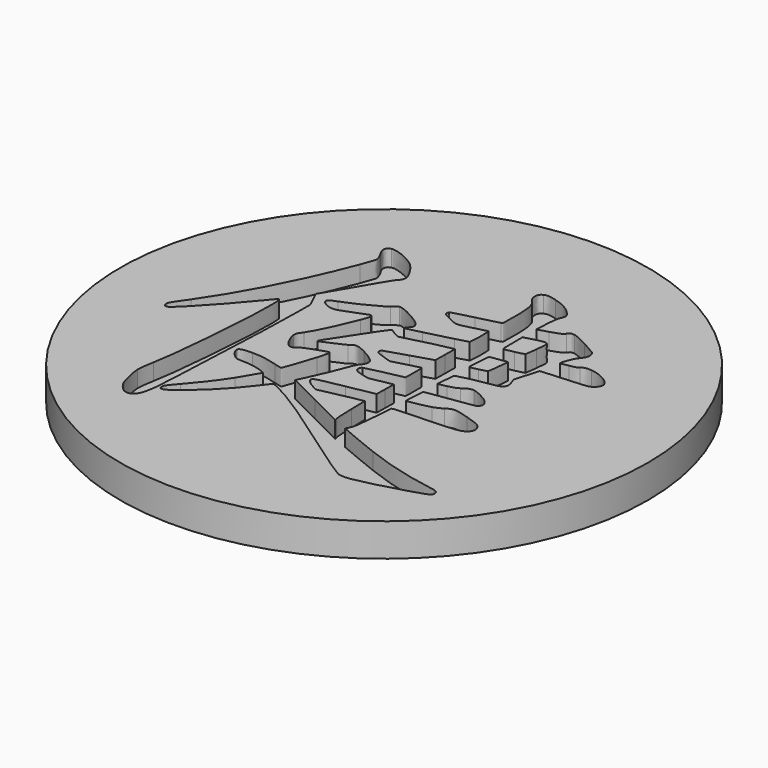
from build123d import *

# Parameters (mm, degrees)
SKETCH001_R  = 20
PAD_DEPTH    = 2.5
POCKET_DEPTH = 1.25


with BuildPart() as part:
    # Sketch001 (on DatumPlane) → Pad (new body)
    with BuildSketch(Plane.XY):
        Circle(SKETCH001_R)
    extrude(amount=-PAD_DEPTH)

    # Sketch → Pocket (cut)
    with BuildSketch(Plane.XY):
        with BuildLine():
            add(Edge.make_bspline(
                [(6.562483, -12.563872), (6.3868, -12.503018), (5.201996, -11.701331), (3.069983, -10.200614)],
                knots=[0, 0, 0, 0, 1, 1, 1, 1], degree=3))
            add(Edge.make_bspline(
                [(3.069983, -10.200614), (-0.155817, -7.929431), (-1.097733, -7.296018), (-2.14125, -6.695414)],
                knots=[0, 0, 0, 0, 1, 1, 1, 1], degree=3))
            add(Edge.make_bspline(
                [(-2.14125, -6.695414), (-2.834987, -6.295893), (-3.565237, -5.927593), (-3.622387, -5.949289)],
                knots=[0, 0, 0, 0, 1, 1, 1, 1], degree=3))
            add(Edge.make_bspline(
                [(-3.622387, -5.949289), (-3.645671, -5.957756), (-3.914487, -6.298539), (-4.219817, -6.705997)],
                knots=[0, 0, 0, 0, 1, 1, 1, 1], degree=3))
            add(Edge.make_bspline(
                [(-4.219817, -6.705997), (-5.087121, -7.865401), (-5.999933, -8.824781), (-7.194792, -9.832843)],
                knots=[0, 0, 0, 0, 1, 1, 1, 1], degree=3))
            add(Edge.make_bspline(
                [(-7.194792, -9.832843), (-8.093317, -10.591139), (-8.506067, -10.767351), (-8.544696, -10.410164)],
                knots=[0, 0, 0, 0, 1, 1, 1, 1], degree=3))
            add(Edge.make_bspline(
                [(-8.544696, -10.410164), (-8.570096, -10.177331), (-8.520883, -10.099014), (-7.902287, -9.394693)],
                knots=[0, 0, 0, 0, 1, 1, 1, 1], degree=3))
            add(Edge.make_bspline(
                [(-7.902287, -9.394693), (-7.176271, -8.568664), (-6.390987, -7.541022), (-5.88775, -6.758914)],
                knots=[0, 0, 0, 0, 1, 1, 1, 1], degree=3))
            add(Edge.make_bspline(
                [(-5.88775, -6.758914), (-5.552787, -6.238214), (-4.99875, -5.290476), (-4.99875, -5.238089)],
                knots=[0, 0, 0, 0, 1, 1, 1, 1], degree=3))
            add(Edge.make_bspline(
                [(-4.99875, -5.238089), (-4.99875, -5.178822), (-5.524212, -4.990968), (-5.909446, -4.911593)],
                knots=[0, 0, 0, 0, 1, 1, 1, 1], degree=3))
            add(Edge.make_bspline(
                [(-5.909446, -4.911593), (-6.133812, -4.865026), (-6.502642, -4.827456), (-6.729654, -4.827456)],
                knots=[0, 0, 0, 0, 1, 1, 1, 1], degree=3))
            add(Edge.make_bspline(
                [(-6.729654, -4.827456), (-6.956137, -4.826926), (-7.226012, -4.803643), (-7.3292, -4.774539)],
                knots=[0, 0, 0, 0, 1, 1, 1, 1], degree=3))
            add(Edge.make_bspline(
                [(-7.3292, -4.774539), (-7.634529, -4.689872), (-8.094375, -4.115197), (-8.058392, -3.862785)],
                knots=[0, 0, 0, 0, 1, 1, 1, 1], degree=3))
            add(Edge.make_bspline(
                [(-8.058392, -3.862785), (-8.035637, -3.701918), (-7.714962, -3.620426), (-7.082608, -3.614606)],
                knots=[0, 0, 0, 0, 1, 1, 1, 1], degree=3))
            add(Edge.make_bspline(
                [(-7.082608, -3.614606), (-6.505287, -3.609314), (-5.856, -3.71356), (-5.110933, -3.931047)],
                knots=[0, 0, 0, 0, 1, 1, 1, 1], degree=3))
            add(Edge.make_bspline(
                [(-5.110933, -3.931047), (-4.809308, -4.018889), (-4.551604, -4.080272), (-4.538904, -4.067572)],
                knots=[0, 0, 0, 0, 1, 1, 1, 1], degree=3))
            add(Edge.make_bspline(
                [(-4.538904, -4.067572), (-4.497629, -4.026297), (-3.9383, -2.385351), (-3.725046, -1.678914)],
                knots=[0, 0, 0, 0, 1, 1, 1, 1], degree=3))
            add(Edge.make_bspline(
                [(-3.725046, -1.678914), (-3.509146, -0.965068), (-3.479512, -0.782506), (-3.571058, -0.725885)],
                knots=[0, 0, 0, 0, 1, 1, 1, 1], degree=3))
            add(Edge.make_bspline(
                [(-3.571058, -0.725885), (-3.600692, -0.707364), (-3.997037, -0.826426), (-4.452121, -0.989939)],
                knots=[0, 0, 0, 0, 1, 1, 1, 1], degree=3))
            add(Edge.make_bspline(
                [(-4.452121, -0.989939), (-5.0686, -1.212189), (-5.31625, -1.327018), (-5.424729, -1.443435)],
                knots=[0, 0, 0, 0, 1, 1, 1, 1], degree=3))
            add(Edge.make_bspline(
                [(-5.424729, -1.443435), (-5.620521, -1.652985), (-5.878225, -1.657218), (-6.084071, -1.454018)],
                knots=[0, 0, 0, 0, 1, 1, 1, 1], degree=3))
            add(Edge.make_bspline(
                [(-6.084071, -1.454018), (-6.3005, -1.240764), (-6.601596, -0.57666), (-6.607946, -0.301493)],
                knots=[0, 0, 0, 0, 1, 1, 1, 1], degree=3))
            add(Edge.make_bspline(
                [(-6.607946, -0.301493), (-6.612179, -0.105172), (-6.572492, -0.015743), (-6.335425, 0.314986)],
                knots=[0, 0, 0, 0, 1, 1, 1, 1], degree=3))
            add(Edge.make_bspline(
                [(-6.335425, 0.314986), (-5.957071, 0.844153), (-5.372871, 2.066528), (-4.728346, 3.681015)],
                knots=[0, 0, 0, 0, 1, 1, 1, 1], degree=3))
            add(Edge.make_bspline(
                [(-4.728346, 3.681015), (-4.521442, 4.199069), (-4.479637, 4.353057), (-4.523558, 4.435078)],
                knots=[0, 0, 0, 0, 1, 1, 1, 1], degree=3))
            add(Edge.make_bspline(
                [(-4.523558, 4.435078), (-4.55425, 4.492228), (-4.597112, 4.538794), (-4.619337, 4.538794)],
                knots=[0, 0, 0, 0, 1, 1, 1, 1], degree=3))
            add(Edge.make_bspline(
                [(-4.619337, 4.538794), (-4.641562, 4.538794), (-5.075479, 4.371049), (-5.583479, 4.165732)],
                knots=[0, 0, 0, 0, 1, 1, 1, 1], degree=3))
            add(Edge.make_bspline(
                [(-5.583479, 4.165732), (-6.091479, 3.960415), (-6.617471, 3.778911), (-6.752937, 3.761978)],
                knots=[0, 0, 0, 0, 1, 1, 1, 1], degree=3))
            add(Edge.make_bspline(
                [(-6.752937, 3.761978), (-7.218604, 3.704299), (-7.879004, 4.038732), (-7.846196, 4.315486)],
                knots=[0, 0, 0, 0, 1, 1, 1, 1], degree=3))
            add(Edge.make_bspline(
                [(-7.846196, 4.315486), (-7.831379, 4.438782), (-7.766292, 4.476882), (-7.22125, 4.681669)],
                knots=[0, 0, 0, 0, 1, 1, 1, 1], degree=3))
            add(Edge.make_bspline(
                [(-7.22125, 4.681669), (-6.206308, 5.062669), (-4.740517, 5.808794), (-4.398146, 6.119415)],
                knots=[0, 0, 0, 0, 1, 1, 1, 1], degree=3))
            add(Edge.make_bspline(
                [(-4.398146, 6.119415), (-4.234633, 6.267582), (-4.045192, 6.402519), (-3.977987, 6.419453)],
                knots=[0, 0, 0, 0, 1, 1, 1, 1], degree=3))
            add(Edge.make_bspline(
                [(-3.977987, 6.419453), (-3.657842, 6.499357), (-1.983558, 5.587074), (-1.800467, 5.232532)],
                knots=[0, 0, 0, 0, 1, 1, 1, 1], degree=3))
            add(Edge.make_bspline(
                [(-1.800467, 5.232532), (-1.682992, 5.005519), (-1.694633, 4.946782), (-1.908417, 4.691194)],
                knots=[0, 0, 0, 0, 1, 1, 1, 1], degree=3))
            add(Edge.make_bspline(
                [(-1.908417, 4.691194), (-2.013192, 4.565782), (-2.078279, 4.456244), (-2.052879, 4.447778)],
                knots=[0, 0, 0, 0, 1, 1, 1, 1], degree=3))
            add(Edge.make_bspline(
                [(-2.052879, 4.447778), (-2.027479, 4.439311), (-1.495137, 4.563665), (-0.870192, 4.724003)],
                knots=[0, 0, 0, 0, 1, 1, 1, 1], degree=3))
            add(Edge.make_bspline(
                [(-0.870192, 4.724003), (-0.244717, 4.884869), (0.6591, 5.114528), (1.139583, 5.235178)],
                knots=[0, 0, 0, 0, 1, 1, 1, 1], degree=3))
            add(Edge.make_bspline(
                [(1.139583, 5.235178), (1.620067, 5.355299), (2.042342, 5.477007), (2.078854, 5.505582)],
                knots=[0, 0, 0, 0, 1, 1, 1, 1], degree=3))
            add(Edge.make_bspline(
                [(2.078854, 5.505582), (2.152408, 5.562732), (2.177279, 7.212674), (2.105313, 7.253419)],
                knots=[0, 0, 0, 0, 1, 1, 1, 1], degree=3))
            add(Edge.make_bspline(
                [(2.105313, 7.253419), (2.083617, 7.266119), (1.648642, 7.159757), (1.139583, 7.017411)],
                knots=[0, 0, 0, 0, 1, 1, 1, 1], degree=3))
            add(Edge.make_bspline(
                [(1.139583, 7.017411), (0.058496, 6.715786), (0.055321, 6.715786), (-0.765417, 7.121128)],
                knots=[0, 0, 0, 0, 1, 1, 1, 1], degree=3))
            add(Edge.make_bspline(
                [(-0.765417, 7.121128), (-1.188221, 7.330678), (-1.270771, 7.391532), (-1.284, 7.506361)],
                knots=[0, 0, 0, 0, 1, 1, 1, 1], degree=3))
            add(Edge.make_bspline(
                [(-1.284, 7.506361), (-1.292996, 7.582032), (-1.266537, 7.670932), (-1.226321, 7.704799)],
                knots=[0, 0, 0, 0, 1, 1, 1, 1], degree=3))
            add(Edge.make_bspline(
                [(-1.226321, 7.704799), (-1.185575, 7.738136), (-0.464321, 7.932869), (0.377054, 8.137128)],
                knots=[0, 0, 0, 0, 1, 1, 1, 1], degree=3))
            add(Edge.make_bspline(
                [(0.377054, 8.137128), (1.218429, 8.340857), (1.960321, 8.531357), (2.025938, 8.559403)],
                knots=[0, 0, 0, 0, 1, 1, 1, 1], degree=3))
            add(Edge.make_bspline(
                [(2.025938, 8.559403), (2.142883, 8.610203), (2.145, 8.626607), (2.145, 9.561115)],
                knots=[0, 0, 0, 0, 1, 1, 1, 1], degree=3))
            add(Edge.make_bspline(
                [(2.145, 9.561115), (2.145, 10.988278), (2.047104, 11.52644), (1.725371, 11.867753)],
                knots=[0, 0, 0, 0, 1, 1, 1, 1], degree=3))
            add(Edge.make_bspline(
                [(1.725371, 11.867753), (1.521113, 12.084182), (1.457083, 12.223353), (1.457083, 12.449783)],
                knots=[0, 0, 0, 0, 1, 1, 1, 1], degree=3))
            add(Edge.make_bspline(
                [(1.457083, 12.449783), (1.457083, 12.697222), (1.528521, 12.826179), (1.720608, 12.925504)],
                knots=[0, 0, 0, 0, 1, 1, 1, 1], degree=3))
            add(Edge.make_bspline(
                [(1.720608, 12.925504), (1.939154, 13.038428), (2.169871, 13.025411), (2.708033, 12.86973)],
                knots=[0, 0, 0, 0, 1, 1, 1, 1], degree=3))
            add(Edge.make_bspline(
                [(2.708033, 12.86973), (3.362613, 12.680288), (3.7579, 12.470315), (4.142604, 12.107994)],
                knots=[0, 0, 0, 0, 1, 1, 1, 1], degree=3))
            add(Edge.make_bspline(
                [(4.142604, 12.107994), (4.516725, 11.75504), (4.551121, 11.621161), (4.370675, 11.223757)],
                knots=[0, 0, 0, 0, 1, 1, 1, 1], degree=3))
            add(Edge.make_bspline(
                [(4.370675, 11.223757), (4.296592, 11.060774), (4.254788, 10.773436), (4.210338, 10.119915)],
                knots=[0, 0, 0, 0, 1, 1, 1, 1], degree=3))
            add(Edge.make_bspline(
                [(4.210338, 10.119915), (4.177, 9.63414), (4.158479, 9.228269), (4.168533, 9.218215)],
                knots=[0, 0, 0, 0, 1, 1, 1, 1], degree=3))
            add(Edge.make_bspline(
                [(4.168533, 9.218215), (4.179117, 9.207632), (4.531542, 9.307644), (4.952229, 9.440465)],
                knots=[0, 0, 0, 0, 1, 1, 1, 1], degree=3))
            add(Edge.make_bspline(
                [(4.952229, 9.440465), (5.652317, 9.661128), (5.73275, 9.699228), (5.9042, 9.896078)],
                knots=[0, 0, 0, 0, 1, 1, 1, 1], degree=3))
            add(Edge.make_bspline(
                [(5.9042, 9.896078), (6.086233, 10.10404), (6.099992, 10.109861), (6.353992, 10.081286)],
                knots=[0, 0, 0, 0, 1, 1, 1, 1], degree=3))
            add(Edge.make_bspline(
                [(6.353992, 10.081286), (6.549254, 10.05959), (6.858288, 9.923594), (7.56155, 9.550532)],
                knots=[0, 0, 0, 0, 1, 1, 1, 1], degree=3))
            add(Edge.make_bspline(
                [(7.56155, 9.550532), (8.081192, 9.274836), (8.553208, 9.001786), (8.610358, 8.944636)],
                knots=[0, 0, 0, 0, 1, 1, 1, 1], degree=3))
            add(Edge.make_bspline(
                [(8.610358, 8.944636), (8.668038, 8.887486), (8.727304, 8.745669), (8.743179, 8.629782)],
                knots=[0, 0, 0, 0, 1, 1, 1, 1], degree=3))
            add(Edge.make_bspline(
                [(8.743179, 8.629782), (8.775458, 8.386894), (8.682854, 8.172053), (8.406629, 7.848203)],
                knots=[0, 0, 0, 0, 1, 1, 1, 1], degree=3))
            add(Edge.make_bspline(
                [(8.406629, 7.848203), (8.18385, 7.587324), (7.841479, 6.572382), (8.011871, 6.677686)],
                knots=[0, 0, 0, 0, 1, 1, 1, 1], degree=3))
            add(Edge.make_bspline(
                [(8.011871, 6.677686), (8.036742, 6.693032), (8.291271, 6.743303), (8.576492, 6.78934)],
                knots=[0, 0, 0, 0, 1, 1, 1, 1], degree=3))
            add(Edge.make_bspline(
                [(8.576492, 6.78934), (8.969663, 6.85284), (9.132117, 6.904169), (9.249063, 7.002065)],
                knots=[0, 0, 0, 0, 1, 1, 1, 1], degree=3))
            add(Edge.make_bspline(
                [(9.249063, 7.002065), (9.448558, 7.17034), (9.603075, 7.205794), (9.968729, 7.166636)],
                knots=[0, 0, 0, 0, 1, 1, 1, 1], degree=3))
            add(Edge.make_bspline(
                [(9.968729, 7.166636), (10.830742, 7.07509), (11.722917, 6.526874), (11.722917, 6.089253)],
                knots=[0, 0, 0, 0, 1, 1, 1, 1], degree=3))
            add(Edge.make_bspline(
                [(11.722917, 6.089253), (11.722917, 5.877057), (11.575808, 5.661157), (11.338742, 5.52569)],
                knots=[0, 0, 0, 0, 1, 1, 1, 1], degree=3))
            add(Edge.make_bspline(
                [(11.338742, 5.52569), (11.13025, 5.406099), (11.01595, 5.390753), (9.712083, 5.311378)],
                knots=[0, 0, 0, 0, 1, 1, 1, 1], degree=3))
            add(Edge.make_bspline(
                [(9.712083, 5.311378), (8.940558, 5.263753), (8.163742, 5.211365), (7.985413, 5.193903)],
                knots=[0, 0, 0, 0, 1, 1, 1, 1], degree=3))
            add(Edge.make_bspline(
                [(7.985413, 5.193903), (7.660504, 5.162682)],
                knots=[0, 0, 6.168282, 6.168282], degree=1))
            add(Edge.make_bspline(
                [(7.660504, 5.162682), (7.393275, 4.260453)],
                knots=[0, 0, 17.782154, 17.782154], degree=1))
            add(Edge.make_bspline(
                [(7.393275, 4.260453), (7.126046, 3.358224)],
                knots=[0, 0, 17.782154, 17.782154], degree=1))
            add(Edge.make_bspline(
                [(7.126046, 3.358224), (7.247225, 3.035432)],
                knots=[0, 0, 6.515681, 6.515681], degree=1))
            add(Edge.make_bspline(
                [(7.247225, 3.035432), (7.489583, 2.390378), (7.314429, 2.164953), (6.480992, 2.051711)],
                knots=[0, 0, 0, 0, 1, 1, 1, 1], degree=3))
            add(Edge.make_bspline(
                [(6.480992, 2.051711), (5.581408, 1.928944), (4.183879, 1.621499), (4.083867, 1.523603)],
                knots=[0, 0, 0, 0, 1, 1, 1, 1], degree=3))
            add(Edge.make_bspline(
                [(4.083867, 1.523603), (4.035713, 1.476507), (3.922471, 0.150944), (3.962688, 0.110199)],
                knots=[0, 0, 0, 0, 1, 1, 1, 1], degree=3))
            add(Edge.make_bspline(
                [(3.962688, 0.110199), (3.975917, 0.097499), (4.256904, 0.150944), (4.587104, 0.22979)],
                knots=[0, 0, 0, 0, 1, 1, 1, 1], degree=3))
            add(Edge.make_bspline(
                [(4.587104, 0.22979), (5.010438, 0.330332), (5.242213, 0.414999), (5.372917, 0.517128)],
                knots=[0, 0, 0, 0, 1, 1, 1, 1], degree=3))
            add(Edge.make_bspline(
                [(5.372917, 0.517128), (5.693063, 0.766365), (5.899967, 0.848386), (6.141267, 0.821399)],
                knots=[0, 0, 0, 0, 1, 1, 1, 1], degree=3))
            add(Edge.make_bspline(
                [(6.141267, 0.821399), (6.415904, 0.790178), (7.057783, 0.482732), (7.410208, 0.212857)],
                knots=[0, 0, 0, 0, 1, 1, 1, 1], degree=3))
            add(Edge.make_bspline(
                [(7.410208, 0.212857), (7.863704, -0.133747), (7.857354, -0.569251), (7.396979, -0.698368)],
                knots=[0, 0, 0, 0, 1, 1, 1, 1], degree=3))
            add(Edge.make_bspline(
                [(7.396979, -0.698368), (7.287971, -0.72906), (6.473054, -0.850239), (5.586171, -0.967714)],
                knots=[0, 0, 0, 0, 1, 1, 1, 1], degree=3))
            add(Edge.make_bspline(
                [(5.586171, -0.967714), (4.699288, -1.085189), (3.958454, -1.205839), (3.939933, -1.236001)],
                knots=[0, 0, 0, 0, 1, 1, 1, 1], degree=3))
            add(Edge.make_bspline(
                [(3.939933, -1.236001), (3.897071, -1.305322), (3.822458, -2.712376), (3.8595, -2.749947)],
                knots=[0, 0, 0, 0, 1, 1, 1, 1], degree=3))
            add(Edge.make_bspline(
                [(3.8595, -2.749947), (3.907654, -2.798101), (5.16125, -2.554685), (5.579292, -2.416043)],
                knots=[0, 0, 0, 0, 1, 1, 1, 1], degree=3))
            add(Edge.make_bspline(
                [(5.579292, -2.416043), (5.800483, -2.342489), (6.108458, -2.196439), (6.263504, -2.090606)],
                knots=[0, 0, 0, 0, 1, 1, 1, 1], degree=3))
            add(Edge.make_bspline(
                [(6.263504, -2.090606), (6.699538, -1.793743), (6.90115, -1.797447), (7.992292, -2.12606)],
                knots=[0, 0, 0, 0, 1, 1, 1, 1], degree=3))
            add(Edge.make_bspline(
                [(7.992292, -2.12606), (8.942675, -2.412339), (9.084492, -2.482718), (9.275521, -2.763176)],
                knots=[0, 0, 0, 0, 1, 1, 1, 1], degree=3))
            add(Edge.make_bspline(
                [(9.275521, -2.763176), (9.545396, -3.159522), (9.322617, -3.577035), (8.755879, -3.735256)],
                knots=[0, 0, 0, 0, 1, 1, 1, 1], degree=3))
            add(Edge.make_bspline(
                [(8.755879, -3.735256), (8.427267, -3.826801), (7.166792, -3.909351), (5.399375, -3.955389)],
                knots=[0, 0, 0, 0, 1, 1, 1, 1], degree=3))
            add(Edge.make_bspline(
                [(5.399375, -3.955389), (4.729979, -3.972851), (4.098683, -4.004072), (3.997083, -4.025768)],
                knots=[0, 0, 0, 0, 1, 1, 1, 1], degree=3))
            add(Edge.make_bspline(
                [(3.997083, -4.025768), (3.811875, -4.064397)],
                knots=[0, 0, 3.575318, 3.575318], degree=1))
            add(Edge.make_bspline(
                [(3.811875, -4.064397), (3.697046, -5.48521)],
                knots=[0, 0, 26.937546, 26.937546], degree=1))
            add(Edge.make_bspline(
                [(3.697046, -5.48521), (3.576925, -6.977989), (3.527183, -7.280672), (3.356263, -7.572772)],
                knots=[0, 0, 0, 0, 1, 1, 1, 1], degree=3))
            add(Edge.make_bspline(
                [(3.356263, -7.572772), (3.299113, -7.670668), (3.258896, -7.757981), (3.267363, -7.766976)],
                knots=[0, 0, 0, 0, 1, 1, 1, 1], degree=3))
            add(Edge.make_bspline(
                [(3.267363, -7.766976), (3.300171, -7.799785), (5.650729, -8.767101), (6.404792, -9.058672)],
                knots=[0, 0, 0, 0, 1, 1, 1, 1], degree=3))
            add(Edge.make_bspline(
                [(6.404792, -9.058672), (8.333604, -9.802681), (9.985663, -10.242947), (12.265842, -10.620243)],
                knots=[0, 0, 0, 0, 1, 1, 1, 1], degree=3))
            add(Edge.make_bspline(
                [(12.265842, -10.620243), (12.620913, -10.678981), (12.734154, -11.067389), (12.449463, -11.253656)],
                knots=[0, 0, 0, 0, 1, 1, 1, 1], degree=3))
            add(Edge.make_bspline(
                [(12.449463, -11.253656), (12.256846, -11.379597), (10.354492, -11.955331), (9.0284, -12.288176)],
                knots=[0, 0, 0, 0, 1, 1, 1, 1], degree=3))
            add(Edge.make_bspline(
                [(9.0284, -12.288176), (7.484821, -12.676585), (7.033442, -12.726856), (6.562483, -12.563872)],
                knots=[0, 0, 0, 0, 1, 1, 1, 1], degree=3))
        make_face()
        with BuildLine():
            add(Edge.make_bspline(
                [(2.084675, -7.099168), (2.051338, -6.997039), (2.014296, -6.346164), (2.000008, -5.605331)],
                knots=[0, 0, 0, 0, 1, 1, 1, 1], degree=3))
            add(Edge.make_bspline(
                [(2.000008, -5.605331), (1.974079, -4.292468)],
                knots=[0, 0, 24.814838, 24.814838], degree=1))
            add(Edge.make_bspline(
                [(1.974079, -4.292468), (1.834908, -4.321572)],
                knots=[0, 0, 2.686894, 2.686894], degree=1))
            add(Edge.make_bspline(
                [(1.834908, -4.321572), (1.758179, -4.337447), (1.433271, -4.398831), (1.113125, -4.458097)],
                knots=[0, 0, 0, 0, 1, 1, 1, 1], degree=3))
            add(Edge.make_bspline(
                [(1.113125, -4.458097), (0.792979, -4.517364), (0.140517, -4.65336), (-0.336262, -4.759722)],
                knots=[0, 0, 0, 0, 1, 1, 1, 1], degree=3))
            add(Edge.make_bspline(
                [(-0.336262, -4.759722), (-1.203567, -4.953397)],
                knots=[0, 0, 16.79368, 16.79368], degree=1))
            add(Edge.make_bspline(
                [(-1.203567, -4.953397), (-1.529004, -4.784593)],
                knots=[0, 0, 6.928102, 6.928102], degree=1))
            add(Edge.make_bspline(
                [(-1.529004, -4.784593), (-1.909475, -4.587214), (-2.173529, -4.369197), (-2.216921, -4.216268)],
                knots=[0, 0, 0, 0, 1, 1, 1, 1], degree=3))
            add(Edge.make_bspline(
                [(-2.216921, -4.216268), (-2.2873, -3.967031), (-2.211629, -3.942689), (-0.076971, -3.539993)],
                knots=[0, 0, 0, 0, 1, 1, 1, 1], degree=3))
            add(Edge.make_bspline(
                [(-0.076971, -3.539993), (1.959792, -3.155289)],
                knots=[0, 0, 39.170563, 39.170563], degree=1))
            add(Edge.make_bspline(
                [(1.959792, -3.155289), (1.974608, -2.359951)],
                knots=[0, 0, 15.032608, 15.032608], degree=1))
            add(Edge.make_bspline(
                [(1.974608, -2.359951), (1.988896, -1.564614)],
                knots=[0, 0, 15.032425, 15.032425], degree=1))
            add(Edge.make_bspline(
                [(1.988896, -1.564614), (1.140113, -1.724422)],
                knots=[0, 0, 16.321826, 16.321826], degree=1))
            add(Edge.make_bspline(
                [(1.140113, -1.724422), (0.291329, -1.88476)],
                knots=[0, 0, 16.323679, 16.323679], degree=1))
            add(Edge.make_bspline(
                [(0.291329, -1.88476), (-0.2045, -1.765168)],
                knots=[0, 0, 9.638698, 9.638698], degree=1))
            add(Edge.make_bspline(
                [(-0.2045, -1.765168), (-0.744779, -1.634993), (-0.924167, -1.510639), (-0.924167, -1.266693)],
                knots=[0, 0, 0, 0, 1, 1, 1, 1], degree=3))
            add(Edge.make_bspline(
                [(-0.924167, -1.266693), (-0.924167, -1.178322), (-0.879717, -1.097889), (-0.805104, -1.050264)],
                knots=[0, 0, 0, 0, 1, 1, 1, 1], degree=3))
            add(Edge.make_bspline(
                [(-0.805104, -1.050264), (-0.714617, -0.993114), (1.786754, -0.435372), (1.952913, -0.435372)],
                knots=[0, 0, 0, 0, 1, 1, 1, 1], degree=3))
            add(Edge.make_bspline(
                [(1.952913, -0.435372), (1.971433, -0.435372), (1.98625, -0.076597), (1.98625, 0.362082)],
                knots=[0, 0, 0, 0, 1, 1, 1, 1], degree=3))
            add(Edge.make_bspline(
                [(1.98625, 0.362082), (1.98625, 1.096565), (1.978842, 1.15689), (1.893646, 1.132019)],
                knots=[0, 0, 0, 0, 1, 1, 1, 1], degree=3))
            add(Edge.make_bspline(
                [(1.893646, 1.132019), (1.842846, 1.116674), (1.5989, 1.054232), (1.35125, 0.993378)],
                knots=[0, 0, 0, 0, 1, 1, 1, 1], degree=3))
            add(Edge.make_bspline(
                [(1.35125, 0.993378), (1.1036, 0.932524), (0.683442, 0.821399), (0.416742, 0.746786)],
                knots=[0, 0, 0, 0, 1, 1, 1, 1], degree=3))
            add(Edge.make_bspline(
                [(0.416742, 0.746786), (-0.067975, 0.611319)],
                knots=[0, 0, 9.511004, 9.511004], degree=1))
            add(Edge.make_bspline(
                [(-0.067975, 0.611319), (-0.588675, 0.781711)],
                knots=[0, 0, 10.353454, 10.353454], degree=1))
            add(Edge.make_bspline(
                [(-0.588675, 0.781711), (-0.874954, 0.875903), (-1.162821, 0.985969), (-1.228438, 1.027244)],
                knots=[0, 0, 0, 0, 1, 1, 1, 1], degree=3))
            add(Edge.make_bspline(
                [(-1.228438, 1.027244), (-1.371313, 1.116144), (-1.387187, 1.335749), (-1.254896, 1.391311)],
                knots=[0, 0, 0, 0, 1, 1, 1, 1], degree=3))
            add(Edge.make_bspline(
                [(-1.254896, 1.391311), (-1.204096, 1.412478), (-0.459558, 1.648486), (0.39875, 1.916244)],
                knots=[0, 0, 0, 0, 1, 1, 1, 1], degree=3))
            add(Edge.make_bspline(
                [(0.39875, 1.916244), (1.959792, 2.402549)],
                knots=[0, 0, 30.898319, 30.898319], degree=1))
            add(Edge.make_bspline(
                [(1.959792, 2.402549), (1.974079, 3.318007)],
                knots=[0, 0, 17.302107, 17.302107], degree=1))
            add(Edge.make_bspline(
                [(1.974079, 3.318007), (1.988896, 4.233465)],
                knots=[0, 0, 17.302266, 17.302266], degree=1))
            add(Edge.make_bspline(
                [(1.988896, 4.233465), (1.788871, 4.198011)],
                knots=[0, 0, 3.838919, 3.838919], degree=1))
            add(Edge.make_bspline(
                [(1.788871, 4.198011), (1.233775, 4.099057), (-0.135179, 3.775207), (-0.791875, 3.587882)],
                knots=[0, 0, 0, 0, 1, 1, 1, 1], degree=3))
            add(Edge.make_bspline(
                [(-0.791875, 3.587882), (-1.199333, 3.470936), (-1.577688, 3.375686), (-1.632721, 3.375157)],
                knots=[0, 0, 0, 0, 1, 1, 1, 1], degree=3))
            add(Edge.make_bspline(
                [(-1.632721, 3.375157), (-1.719504, 3.374628), (-1.979325, 3.514328), (-2.391017, 3.784203)],
                knots=[0, 0, 0, 0, 1, 1, 1, 1], degree=3))
            add(Edge.make_bspline(
                [(-2.391017, 3.784203), (-2.506375, 3.859874), (-2.530717, 3.827594), (-3.655196, 2.123149)],
                knots=[0, 0, 0, 0, 1, 1, 1, 1], degree=3))
            add(Edge.make_bspline(
                [(-3.655196, 2.123149), (-5.08765, -0.048551), (-5.058546, -0.001456), (-5.006687, -0.033735)],
                knots=[0, 0, 0, 0, 1, 1, 1, 1], degree=3))
            add(Edge.make_bspline(
                [(-5.006687, -0.033735), (-4.945304, -0.071835), (-3.426067, 0.591211), (-3.288483, 0.716624)],
                knots=[0, 0, 0, 0, 1, 1, 1, 1], degree=3))
            add(Edge.make_bspline(
                [(-3.288483, 0.716624), (-2.95405, 1.020894), (-2.775192, 1.009782), (-2.034358, 0.639894)],
                knots=[0, 0, 0, 0, 1, 1, 1, 1], degree=3))
            add(Edge.make_bspline(
                [(-2.034358, 0.639894), (-1.392479, 0.31869), (-0.924167, -0.06231), (-0.924167, -0.263393)],
                knots=[0, 0, 0, 0, 1, 1, 1, 1], degree=3))
            add(Edge.make_bspline(
                [(-0.924167, -0.263393), (-0.924167, -0.441193), (-1.024179, -0.660268), (-1.183988, -0.832247)],
                knots=[0, 0, 0, 0, 1, 1, 1, 1], degree=3))
            add(Edge.make_bspline(
                [(-1.183988, -0.832247), (-1.269713, -0.924322), (-1.405179, -1.201606), (-1.507308, -1.493706)],
                knots=[0, 0, 0, 0, 1, 1, 1, 1], degree=3))
            add(Edge.make_bspline(
                [(-1.507308, -1.493706), (-1.745433, -2.173156), (-2.187817, -3.224081), (-2.5921, -4.072335)],
                knots=[0, 0, 0, 0, 1, 1, 1, 1], degree=3))
            add(Edge.make_bspline(
                [(-2.5921, -4.072335), (-2.926533, -4.772422)],
                knots=[0, 0, 14.662036, 14.662036], degree=1))
            add(Edge.make_bspline(
                [(-2.926533, -4.772422), (-0.403996, -6.035014)],
                knots=[0, 0, 53.307865, 53.307865], degree=1))
            add(Edge.make_bspline(
                [(-0.403996, -6.035014), (0.983479, -6.729281), (2.123833, -7.293901), (2.130712, -7.289139)],
                knots=[0, 0, 0, 0, 1, 1, 1, 1], degree=3))
            add(Edge.make_bspline(
                [(2.130712, -7.289139), (2.137592, -7.284906), (2.116954, -7.199181), (2.084675, -7.099168)],
                knots=[0, 0, 0, 0, 1, 1, 1, 1], degree=3))
        make_face(mode=Mode.SUBTRACT)
        with BuildLine():
            add(Edge.make_bspline(
                [(4.702463, 3.078294), (4.988213, 3.146557), (5.2438, 3.224344), (5.269729, 3.250274)],
                knots=[0, 0, 0, 0, 1, 1, 1, 1], degree=3))
            add(Edge.make_bspline(
                [(5.269729, 3.250274), (5.326879, 3.307424), (5.511558, 4.840949), (5.466579, 4.885928)],
                knots=[0, 0, 0, 0, 1, 1, 1, 1], degree=3))
            add(Edge.make_bspline(
                [(5.466579, 4.885928), (5.436417, 4.91609), (4.270663, 4.762103), (4.199754, 4.718711)],
                knots=[0, 0, 0, 0, 1, 1, 1, 1], degree=3))
            add(Edge.make_bspline(
                [(4.199754, 4.718711), (4.165358, 4.697015), (4.137313, 4.410207), (4.073813, 3.440774)],
                knots=[0, 0, 0, 0, 1, 1, 1, 1], degree=3))
            add(Edge.make_bspline(
                [(4.073813, 3.440774), (4.048942, 3.053424), (4.056879, 2.951824), (4.111913, 2.952882)],
                knots=[0, 0, 0, 0, 1, 1, 1, 1], degree=3))
            add(Edge.make_bspline(
                [(4.111913, 2.952882), (4.150542, 2.953411), (4.416183, 3.010032), (4.702463, 3.078294)],
                knots=[0, 0, 0, 0, 1, 1, 1, 1], degree=3))
        make_face(mode=Mode.SUBTRACT)
        with BuildLine():
            add(Edge.make_bspline(
                [(4.952758, 6.153282), (5.312063, 6.226307), (5.620567, 6.310444), (5.639088, 6.340607)],
                knots=[0, 0, 0, 0, 1, 1, 1, 1], degree=3))
            add(Edge.make_bspline(
                [(5.639088, 6.340607), (5.657608, 6.37024), (5.716346, 6.773465), (5.769792, 7.236486)],
                knots=[0, 0, 0, 0, 1, 1, 1, 1], degree=3))
            add(Edge.make_bspline(
                [(5.769792, 7.236486), (5.879858, 8.190044), (5.867688, 8.242961), (5.537488, 8.242961)],
                knots=[0, 0, 0, 0, 1, 1, 1, 1], degree=3))
            add(Edge.make_bspline(
                [(5.537488, 8.242961), (5.431125, 8.242961), (5.178183, 8.197453), (4.974983, 8.14189)],
                knots=[0, 0, 0, 0, 1, 1, 1, 1], degree=3))
            add(Edge.make_bspline(
                [(4.974983, 8.14189), (4.771783, 8.085799), (4.504554, 8.013303), (4.380729, 7.981024)],
                knots=[0, 0, 0, 0, 1, 1, 1, 1], degree=3))
            add(Edge.make_bspline(
                [(4.380729, 7.981024), (4.155833, 7.921228)],
                knots=[0, 0, 4.397658, 4.397658], degree=1))
            add(Edge.make_bspline(
                [(4.155833, 7.921228), (4.155833, 6.970844)],
                knots=[0, 0, 17.96, 17.96], degree=1))
            add(Edge.make_bspline(
                [(4.155833, 6.970844), (4.155833, 6.204082), (4.169592, 6.020461), (4.2278, 6.020461)],
                knots=[0, 0, 0, 0, 1, 1, 1, 1], degree=3))
            add(Edge.make_bspline(
                [(4.2278, 6.020461), (4.267488, 6.020461), (4.593983, 6.080257), (4.952758, 6.153282)],
                knots=[0, 0, 0, 0, 1, 1, 1, 1], degree=3))
        make_face(mode=Mode.SUBTRACT)
        with BuildLine():
            add(Edge.make_bspline(
                [(-10.005725, -12.134718), (-10.256021, -11.982318), (-10.569817, -11.576447), (-10.676708, -11.267943)],
                knots=[0, 0, 0, 0, 1, 1, 1, 1], degree=3))
            add(Edge.make_bspline(
                [(-10.676708, -11.267943), (-10.859271, -10.740364), (-11.036013, -9.907456), (-11.046067, -9.524868)],
                knots=[0, 0, 0, 0, 1, 1, 1, 1], degree=3))
            add(Edge.make_bspline(
                [(-11.046067, -9.524868), (-11.052946, -9.273514), (-10.997383, -8.829014), (-10.885729, -8.240581)],
                knots=[0, 0, 0, 0, 1, 1, 1, 1], degree=3))
            add(Edge.make_bspline(
                [(-10.885729, -8.240581), (-10.403129, -5.696347), (-9.837979, 2.246444), (-10.107325, 2.69994)],
                knots=[0, 0, 0, 0, 1, 1, 1, 1], degree=3))
            add(Edge.make_bspline(
                [(-10.107325, 2.69994), (-10.154421, 2.779315), (-10.246496, 2.688299), (-10.748675, 2.06494)],
                knots=[0, 0, 0, 0, 1, 1, 1, 1], degree=3))
            add(Edge.make_bspline(
                [(-10.748675, 2.06494), (-12.016029, 0.491728), (-14.349125, -2.022872), (-14.633287, -2.121826)],
                knots=[0, 0, 0, 0, 1, 1, 1, 1], degree=3))
            add(Edge.make_bspline(
                [(-14.633287, -2.121826), (-14.868237, -2.203847), (-15, -2.121826), (-15, -1.894285)],
                knots=[0, 0, 0, 0, 1, 1, 1, 1], degree=3))
            add(Edge.make_bspline(
                [(-15, -1.894285), (-15, -1.706431), (-14.99365, -1.695847), (-14.194608, -0.554964)],
                knots=[0, 0, 0, 0, 1, 1, 1, 1], degree=3))
            add(Edge.make_bspline(
                [(-14.194608, -0.554964), (-12.391208, 2.02049), (-10.541771, 5.617236), (-9.180754, 9.194932)],
                knots=[0, 0, 0, 0, 1, 1, 1, 1], degree=3))
            add(Edge.make_bspline(
                [(-9.180754, 9.194932), (-8.975967, 9.732565), (-8.80875, 10.224161), (-8.80875, 10.286074)],
                knots=[0, 0, 0, 0, 1, 1, 1, 1], degree=3))
            add(Edge.make_bspline(
                [(-8.80875, 10.286074), (-8.80875, 10.460169), (-8.936808, 10.78349), (-9.119371, 11.071886)],
                knots=[0, 0, 0, 0, 1, 1, 1, 1], degree=3))
            add(Edge.make_bspline(
                [(-9.119371, 11.071886), (-9.383425, 11.48834), (-9.331037, 11.811132), (-8.982317, 11.917494)],
                knots=[0, 0, 0, 0, 1, 1, 1, 1], degree=3))
            add(Edge.make_bspline(
                [(-8.982317, 11.917494), (-8.620896, 12.027561), (-7.403812, 11.519561), (-6.878879, 11.040136)],
                knots=[0, 0, 0, 0, 1, 1, 1, 1], degree=3))
            add(Edge.make_bspline(
                [(-6.878879, 11.040136), (-6.591012, 10.776611), (-6.285683, 10.339519), (-6.060258, 9.866444)],
                knots=[0, 0, 0, 0, 1, 1, 1, 1], degree=3))
            add(Edge.make_bspline(
                [(-6.060258, 9.866444), (-5.896746, 9.524603), (-5.935375, 9.298119), (-6.20525, 9.013957)],
                knots=[0, 0, 0, 0, 1, 1, 1, 1], degree=3))
            add(Edge.make_bspline(
                [(-6.20525, 9.013957), (-6.317962, 8.895424), (-6.549208, 8.54829), (-6.719071, 8.242961)],
                knots=[0, 0, 0, 0, 1, 1, 1, 1], degree=3))
            add(Edge.make_bspline(
                [(-6.719071, 8.242961), (-6.888933, 7.937103), (-7.435033, 7.008415), (-7.931921, 6.179211)],
                knots=[0, 0, 0, 0, 1, 1, 1, 1], degree=3))
            add(Edge.make_bspline(
                [(-7.931921, 6.179211), (-8.428808, 5.349478), (-8.843146, 4.653094), (-8.852671, 4.631928)],
                knots=[0, 0, 0, 0, 1, 1, 1, 1], degree=3))
            add(Edge.make_bspline(
                [(-8.852671, 4.631928), (-8.862196, 4.610232), (-8.731492, 4.312311), (-8.561629, 3.970469)],
                knots=[0, 0, 0, 0, 1, 1, 1, 1], degree=3))
            add(Edge.make_bspline(
                [(-8.561629, 3.970469), (-8.253125, 3.348699)],
                knots=[0, 0, 13.116837, 13.116837], degree=1))
            add(Edge.make_bspline(
                [(-8.253125, 3.348699), (-8.262121, 2.025782)],
                knots=[0, 0, 25.000578, 25.000578], degree=1))
            add(Edge.make_bspline(
                [(-8.262121, 2.025782), (-8.272175, 0.630369), (-8.371129, -2.040335), (-8.547342, -5.647664)],
                knots=[0, 0, 0, 0, 1, 1, 1, 1], degree=3))
            add(Edge.make_bspline(
                [(-8.547342, -5.647664), (-8.60555, -6.840935), (-8.6754, -8.41256), (-8.702917, -9.140164)],
                knots=[0, 0, 0, 0, 1, 1, 1, 1], degree=3))
            add(Edge.make_bspline(
                [(-8.702917, -9.140164), (-8.772767, -10.988014), (-8.934162, -11.800285), (-9.291879, -12.101381)],
                knots=[0, 0, 0, 0, 1, 1, 1, 1], degree=3))
            add(Edge.make_bspline(
                [(-9.291879, -12.101381), (-9.487142, -12.265422), (-9.769717, -12.278651), (-10.005725, -12.134718)],
                knots=[0, 0, 0, 0, 1, 1, 1, 1], degree=3))
        make_face()
    extrude(amount=-POCKET_DEPTH, mode=Mode.SUBTRACT)


solid = part.part
